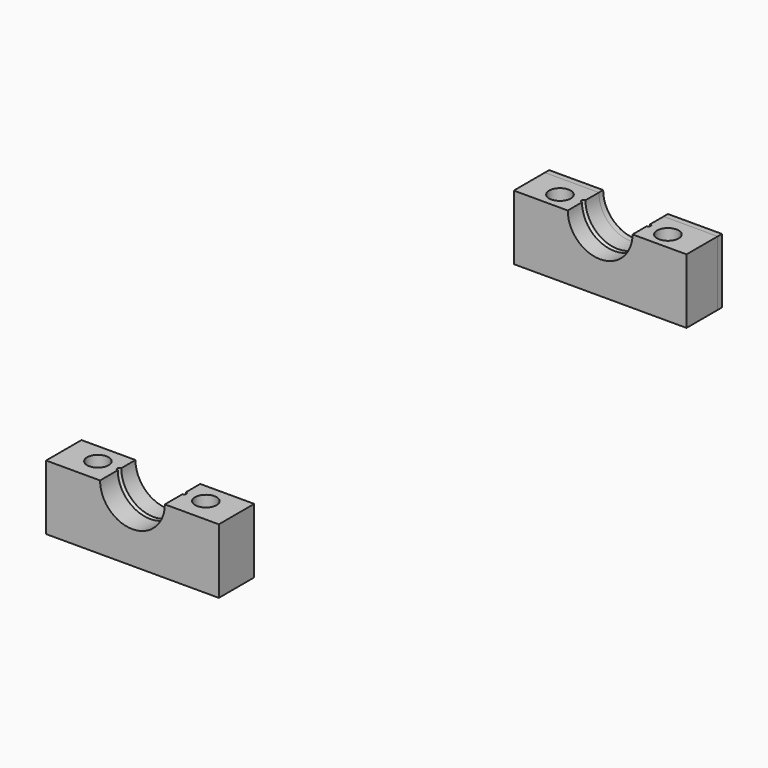
from build123d import *

# Parameters (mm, degrees)
F0_W     = 160
F0_H     = 40
F0_R     = 10
F1_DEPTH = 30
F0_H_2   = 45
F3_DEPTH = 577.501
F4_R     = 2
F6_DEPTH = 5
F7_DEPTH = 4
F8_DEPTH = 4


with BuildPart() as f1:
    # F0 (on Top) → F1 (new body, symmetric)
    with BuildSketch(Plane.XY):
        with Locations((0, 267.5)):
            Rectangle(F0_W, F0_H)
        with Locations((-50, 267.5)):
            Circle(F0_R, mode=Mode.SUBTRACT)
        with Locations((50, 267.5)):
            Circle(F0_R, mode=Mode.SUBTRACT)
    extrude(amount=F1_DEPTH, both=True)


with BuildPart() as f1b:
    # F0 (on Top) → F1, piece 2 (new body, symmetric)
    with BuildSketch(Plane.XY):
        with Locations((0, -267.5)):
            Rectangle(F0_W, F0_H_2)
        with Locations((-50, -267.5)):
            Circle(F0_R, mode=Mode.SUBTRACT)
        with Locations((50, -267.5)):
            Circle(F0_R, mode=Mode.SUBTRACT)
    extrude(amount=F1_DEPTH, both=True)


with BuildPart() as f3_tool:
    # F2 (on face) → F3 (new body, through all)
    with BuildSketch(Plane.XZ.offset(290)):
        with BuildLine():
            ThreePointArc((-30, 30), (0, 0), (30, 30))
            Line((30, 30), (-30, 30))
        make_face()
        with BuildLine():
            Line((-30, 30), (30, 30))
            ThreePointArc((30, 30), (0, 60), (-30, 30))
        make_face()
    extrude(amount=-F3_DEPTH)


with BuildPart() as f1_1:
    add(f1.part)

    # F3: cut by f3_tool
    add(f3_tool.part, mode=Mode.SUBTRACT)


with BuildPart() as f1b_1:
    add(f1b.part)

    # F3: cut by f3_tool
    add(f3_tool.part, mode=Mode.SUBTRACT)


with BuildPart() as f5_tool:
    # F4 (on face) → F5 (revolve)
    with BuildSketch(Plane.XY.offset(30)):
        with Locations((30, 270)):
            Circle(F4_R)
        with Locations((30, -267.5)):
            Circle(F4_R)
    revolve(axis=Axis((0, -0.4611611366, 30), (0, 1, 0)))


with BuildPart() as f1_2:
    add(f1_1.part)

    # F5: cut by f5_tool
    add(f5_tool.part, mode=Mode.SUBTRACT)

    # F6 (add): a face of the model
    f6_faces = [f1_2.faces().sort_by_distance(p)[0] for p in [
        (0, 287.5, -2.9820004893),
    ]]
    extrude(f6_faces, amount=F6_DEPTH)

    # F8 (cut): a face of the model
    f8_faces = [f1_2.faces().sort_by_distance(p)[0] for p in [
        (0, 247.5, -2.9820004893),
    ]]
    extrude(f8_faces, amount=-F8_DEPTH, mode=Mode.SUBTRACT)


with BuildPart() as f1b_2:
    add(f1b_1.part)

    # F5: cut by f5_tool
    add(f5_tool.part, mode=Mode.SUBTRACT)

    # F7 (cut): a face of the model
    f7_faces = [f1b_2.faces().sort_by_distance(p)[0] for p in [
        (0, -245, -2.9820004893),
    ]]
    extrude(f7_faces, amount=-F7_DEPTH, mode=Mode.SUBTRACT)


solid = Compound([f1_2.part, f1b_2.part])
